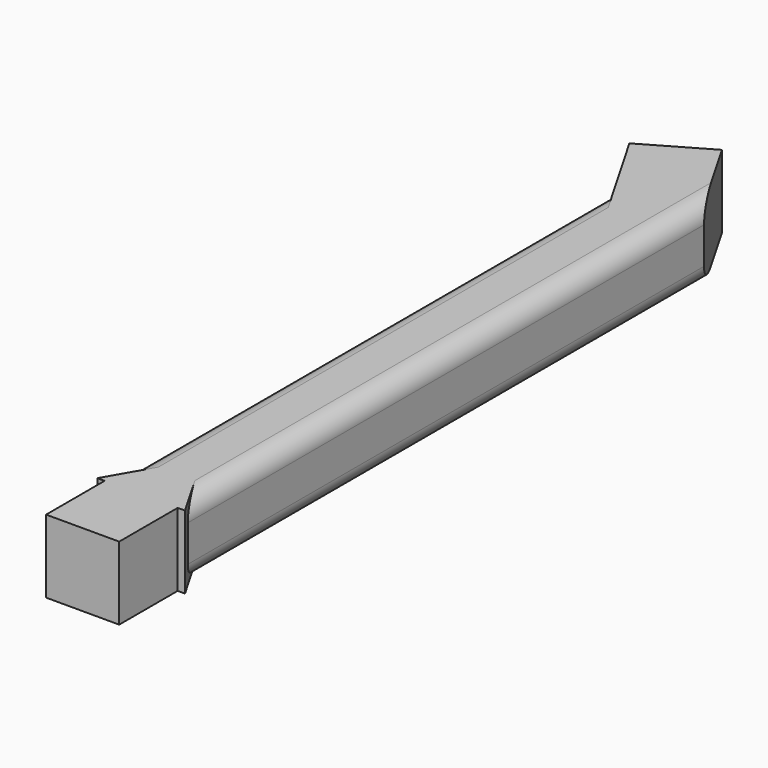
from build123d import *

# Parameters (mm, degrees)
F1_DEPTH = 10
F2_R     = 2.5


with BuildPart() as f1:
    # F0 (on Top) → F1 (new body)
    with BuildSketch(Plane.XY):
        Polygon((0, -61.640104), (0, -71.640104), (10, -71.640104), (10, -61.640104), (11, -61.640104), (10, -59.908053), (10, 28.359896), (3.660254, 39.340658), (-5, 34.340658), (0, 25.680404), (0, -59.908053), (-1, -61.640104), align=None)
    extrude(amount=F1_DEPTH)

    # F2
    f2_edges = [f1.edges().sort_by_distance(p)[0] for p in [
        (0, -17.113824, 10),
        (0, -17.113824, 0),
        (10, -15.774078, 10),
        (10, -15.774078, 0),
    ]]
    fillet(f2_edges, radius=F2_R)


solid = f1.part
